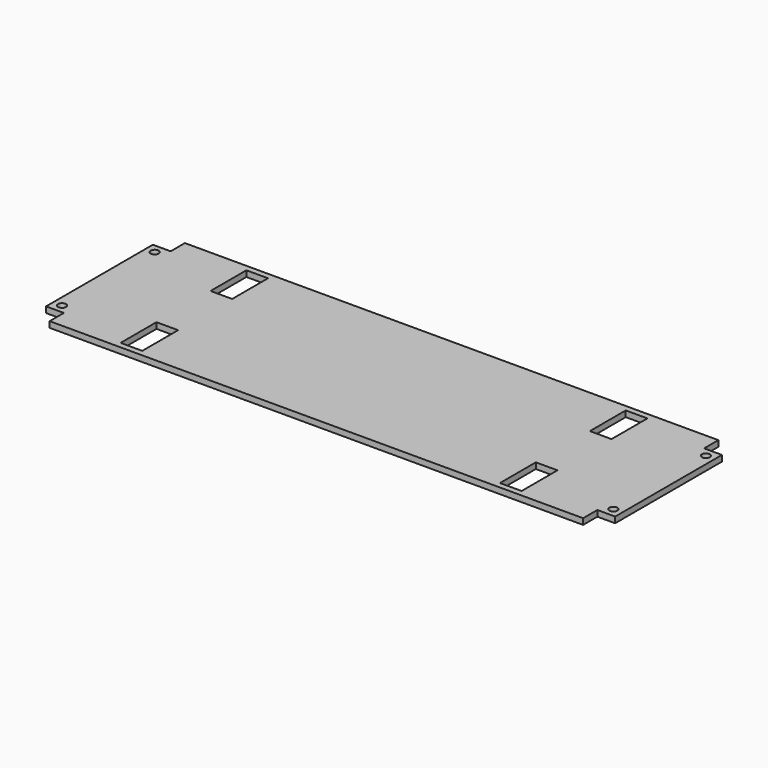
from build123d import *

# Parameters (mm, degrees)
F0_W     = 304.8
F0_H     = 90.5500094
F0_W_2   = 11.5876832
F0_H_2   = 24
F1_DEPTH = 3.175
F2_R     = 2.15265
F3_DEPTH = 3.175
F4_W     = 9.525
F4_H     = 9.525
F5_DEPTH = 3.175


with BuildPart() as f1:
    # F0 (on Top) → F1 (new body)
    with BuildSketch(Plane.XY):
        with Locations((152.4, -45.2750047)):
            Rectangle(F0_W, F0_H)
        with Locations((50.8, -75.3750094)):
            Rectangle(F0_W_2, F0_H_2, mode=Mode.SUBTRACT)
        with Locations((254, -75.3750094)):
            Rectangle(F0_W_2, F0_H_2, mode=Mode.SUBTRACT)
        with Locations((50.8, -15.175)):
            Rectangle(F0_W_2, F0_H_2, mode=Mode.SUBTRACT)
        with Locations((254, -15.175)):
            Rectangle(F0_W_2, F0_H_2, mode=Mode.SUBTRACT)
    extrude(amount=F1_DEPTH)

    # F2 (on face) → F3 (cut, through all)
    with BuildSketch(Plane.XY.offset(3.175)):
        with Locations((4.7625, -14.2875)):
            Circle(F2_R)
        with Locations((4.7625, -76.2625094)):
            Circle(F2_R)
        with Locations((300.0375, -76.2625094)):
            Circle(F2_R)
        with Locations((300.0375, -14.2875)):
            Circle(F2_R)
    extrude(amount=-F3_DEPTH, mode=Mode.SUBTRACT)

    # F4 (on face) → F5 (cut, through all)
    with BuildSketch(Plane.XY.offset(3.175)):
        with Locations((300.0375, -4.7625)):
            Rectangle(F4_W, F4_H)
        with Locations((300.0375, -85.7875094)):
            Rectangle(F4_W, F4_H)
        with Locations((4.7625, -85.7875094)):
            Rectangle(F4_W, F4_H)
        with Locations((4.7625, -4.7625)):
            Rectangle(F4_W, F4_H)
    extrude(amount=-F5_DEPTH, mode=Mode.SUBTRACT)


solid = f1.part
